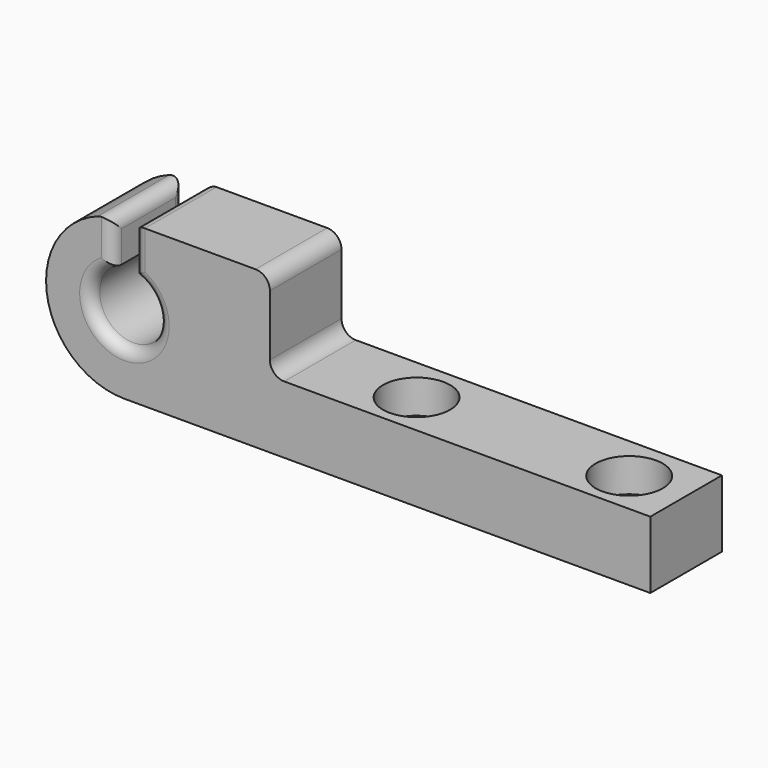
from build123d import *

# Parameters (mm, degrees)
F0_R     = 4.7625
F1_DEPTH = 12.7
F3_DEPTH = 12.701
F4_R     = 1.5875
F5_R     = 2.38125
F5_R_2   = 2.4756195987
F6_DEPTH = 101.6
F7_R     = 4.7625
F8_DEPTH = 4.7625
F9_DEPTH = 36.322
F10_R    = 2.032


with BuildPart() as f1:
    # F0 (on Front) → F1 (new body)
    with BuildSketch(Plane.XZ):
        with BuildLine():
            Line((0, -8.3197675008), (-20.6375, -8.3197675008))
            ThreePointArc((-20.6375, -8.3197675008), (-31.75, -19.4322675008), (-20.6375, -30.5447675008))
            Line((-20.6375, -30.5447675008), (4.7625, -30.5447675008))
            Line((4.7625, -30.5447675008), (53.975, -30.5447675008))
            Line((53.975, -30.5447675008), (53.975, -21.0070675008))
            Line((53.975, -21.0070675008), (0, -21.0070675008))
            Line((0, -21.0070675008), (0, -8.3197675008))
        make_face()
        with Locations((-20.6375, -19.4322675008)):
            Circle(F0_R, mode=Mode.SUBTRACT)
    extrude(amount=F1_DEPTH)

    # F2 (on Front) → F3 (cut, through all)
    with BuildSketch(Plane.XZ):
        Polygon((-19.3086979003, -7.7764257723), (-22.3058979003, -7.62272316), (-22.3058979003, -16.6143205299), (-19.3086979003, -16.6143205299), align=None)
    extrude(amount=F3_DEPTH, mode=Mode.SUBTRACT)

    # F4
    f4_edges = [f1.edges().sort_by_distance(p)[0] for p in [
        (-19.308698, -6.35, -8.319768),
        (-22.305898, -6.35, -8.445726),
        (-22.305898, -12.7, -11.708646),
        (-19.308698, -12.7, -11.589334),
        (-20.458601, -12.7, -24.191406),
        (-19.308698, 0, -11.589334),
        (-22.305898, 0, -11.708646),
        (-20.458601, 0, -24.191406),
    ]]
    fillet(f4_edges, radius=F4_R)

    # F5 (on Top) → F6 (cut)
    with BuildSketch(Plane.XY):
        with Locations((46.0375, -6.5245353617)):
            Circle(F5_R)
        with Locations((15.875, -6.5245353617)):
            Circle(F5_R_2)
    extrude(amount=F6_DEPTH, mode=Mode.SUBTRACT)

    # F7 (on face) → F8 (cut)
    with BuildSketch(Plane.XY.offset(-21.0070675008)):
        with Locations((15.875, -6.5245353617)):
            Circle(F7_R)
        with Locations((46.0375, -6.5245353617)):
            Circle(F7_R)
    extrude(amount=-F8_DEPTH, mode=Mode.SUBTRACT)

    # F5 (on Top) → F9 (cut)
    with BuildSketch(Plane.XY):
        with Locations((15.875, -6.5245353617)):
            Circle(F5_R_2)
        with Locations((46.0375, -6.5245353617)):
            Circle(F5_R)
    extrude(amount=-F9_DEPTH, mode=Mode.SUBTRACT)

    # F10
    f10_edges = [f1.edges().sort_by_distance(p)[0] for p in [
        (0, -6.35, -8.319768),
        (0, -6.35, -21.007068),
    ]]
    fillet(f10_edges, radius=F10_R)


solid = f1.part
